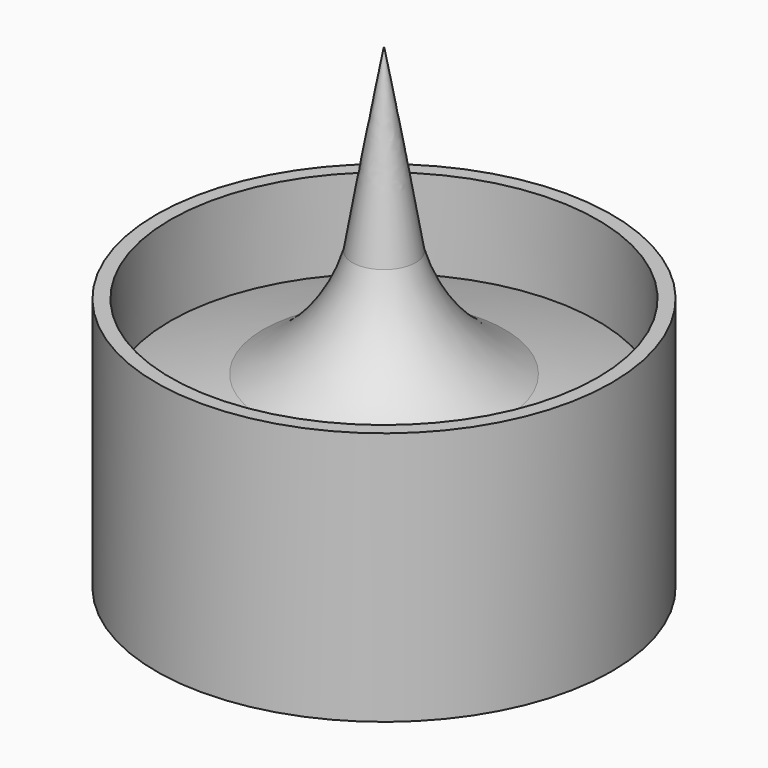
from build123d import *


with BuildPart() as f1:
    # F0 (on Front) → F1 (revolve)
    with BuildSketch(Plane.XZ):
        Polygon((0, -28.364022), (0, -26.622033), (-39.861098, -26.622033), (-38.99768, 16.261026), (-41.559387, 16.261026), (-41.559387, -30.106012), (0, -30.106012), align=None)
        with BuildLine():
            ThreePointArc((-24.319587, -3.885378), (-14.298499, -8.393305), (-7.626853, -17.124442))
            ThreePointArc((-7.626853, -17.124442), (-4.529851, -22.448548), (0, -26.622033))
            Line((0, -26.622033), (0, 56.841634))
            ThreePointArc((0, 56.841634), (-2.961046, 40.395849), (-5.777881, 23.924751))
            ThreePointArc((-5.777881, 23.924751), (-11.840088, 12.357404), (-22.017142, 4.173183))
            ThreePointArc((-22.017142, 4.173183), (-30.548216, 2.252628), (-38.99768, 0))
            ThreePointArc((-38.99768, 0), (-31.908233, -2.885618), (-24.319587, -3.885378))
        make_face()
    revolve(axis=Axis((0, 0, 15.109801), (0, 0, -1)))


solid = f1.part
